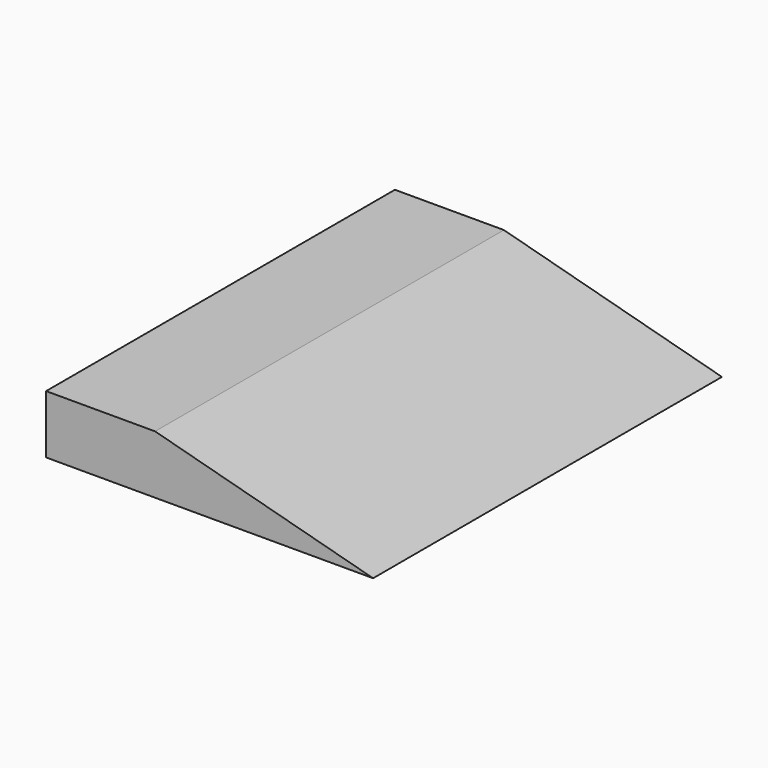
from build123d import *

# Parameters (mm, degrees)
F1_DEPTH  = 50.8
F1_FACE_W = 50.8
F1_FACE_H = 6.80591
F2_DEPTH  = 12.7


with BuildPart() as f1:
    # F0 (on Front) → F1 (new body)
    with BuildSketch(Plane.XZ):
        Polygon((0, 6.805909), (0, 0), (25.4, 0), align=None)
    extrude(amount=F1_DEPTH)

    # F1_face (on face) → F2 (join)
    with BuildSketch(Plane(origin=(0, -25.4, 3.402955), x_dir=(0, -1, 0), z_dir=(-1, 0, 0))):
        Rectangle(F1_FACE_W, F1_FACE_H)
    extrude(amount=F2_DEPTH)


solid = f1.part
